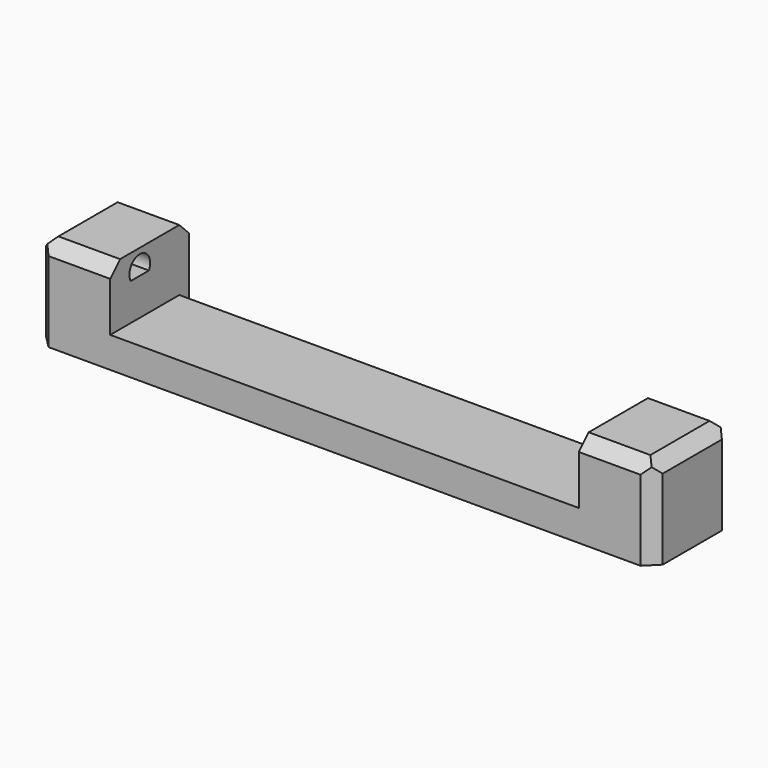
from build123d import *

# Parameters (mm, degrees)
F0_W          = 100
F0_H          = 16
F1_DEPTH      = 3
F2_W          = 12
F2_H          = 16
F3_DEPTH      = 10
F4_SIZE       = 2
F5_SIZE       = 2
F6_SIZE       = 2
F8_DEPTH      = 84
F8_DEPTH_BACK = 8
F9_DEPTH      = 2


with BuildPart() as f1:
    # F0 (on Top) → F1 (new body)
    with BuildSketch(Plane.XY):
        Rectangle(F0_W, F0_H)
    extrude(amount=F1_DEPTH)

    # F2 (on face) → F3 (join)
    with BuildSketch(Plane.XY.offset(3)):
        with Locations((-44, 0)):
            Rectangle(F2_W, F2_H)
        with Locations((44, 0)):
            Rectangle(F2_W, F2_H)
    extrude(amount=F3_DEPTH)

    # F4
    f4_edges = [f1.edges().sort_by_distance(p)[0] for p in [
        (-50, 8, 6.5),
        (-50, 0, 13),
        (-50, -8, 6.5),
        (50, -8, 6.5),
        (50, 0, 13),
        (50, 8, 6.5),
    ]]
    chamfer(f4_edges, length=F4_SIZE)

    # F5
    f5_edges = [f1.edges().sort_by_distance(p)[0] for p in [
        (-43, -8, 13),
        (-43, 8, 13),
        (43, 8, 13),
        (43, -8, 13),
    ]]
    chamfer(f5_edges, length=F5_SIZE)

    # F6
    f6_edges = [f1.edges().sort_by_distance(p)[0] for p in [
        (0, 8, 3),
    ]]
    chamfer(f6_edges, length=F6_SIZE)

    # F9 (add): a face of the model
    f9_faces = [f1.faces().sort_by_distance(p)[0] for p in [
        (0, 0, 0),
    ]]
    extrude(f9_faces, amount=F9_DEPTH)


with BuildPart() as f8:
    # F7 (on face) → F8 (new body, two sides)
    with BuildSketch(Plane.YZ.offset(-38)) as f8_sk:
        with BuildLine():
            Line((-3.8466185313, 9), (-0.1533814687, 9))
            ThreePointArc((-0.1533814687, 9), (-2, 12.1), (-3.8466185313, 9))
        make_face()
    extrude(amount=F8_DEPTH)
    extrude(f8_sk.sketch, amount=-F8_DEPTH_BACK)


with BuildPart() as f1_1:
    add(f1.part)

    # F10: cut F8
    add(f8.part, mode=Mode.SUBTRACT)


solid = f1_1.part
